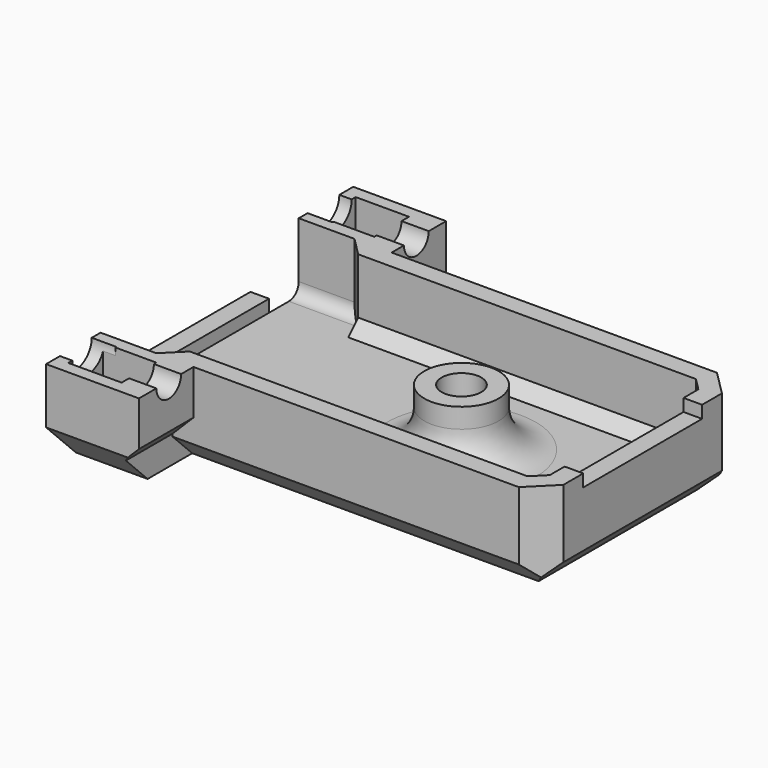
from build123d import *

# Parameters (mm, degrees)
PAD004_DEPTH            = 8.5
SKETCH014_W             = 34.267
SKETCH014_H             = 17
POCKET008_DEPTH         = 5.5
SKETCH015_W             = 6
SKETCH015_H             = 20
POCKET009_DEPTH         = 5.5
SKETCH016_W             = 4.3
SKETCH016_H             = 3.5
POCKET010_DEPTH         = 3
SKETCH017_R             = 1.25
POCKET011_DEPTH         = 35.768
CHAMFER007_SIZE         = 1.49999
POCKET012_DEPTH         = 5.5
CHAMFER008_SIZE         = 4
SKETCH019_W             = 17
SKETCH019_H             = 2
PAD005_DEPTH            = 1.2
SKETCH020_W             = 17
SKETCH020_H             = 3
PAD006_DEPTH            = 1.5
CHAMFER009_SIZE         = 2
SKETCH021_R             = 3
PAD007_DEPTH            = 4.6
FILLET001_R             = 3
CHAMFER010_SIZE         = 3
CHAMFER011_SIZE         = 1
CHAMFER012_SIZE         = 2
SKETCH022_W             = 71.294541
SKETCH022_H             = 63.230997
POCKET013_DEPTH         = 1
SKETCH023_R             = 1.6
POCKET014_DEPTH         = 6.601
POCKET015_DEPTH         = 3
CHAMFER013_SIZE         = 0.5
CHAMFER015_SIZE         = 1
FILLET002_R             = 1
SKETCH028_R             = 1.6
POCKET018_DEPTH         = 2
SKETCH029_W             = 12
SKETCH029_H             = 1
POCKET019_DEPTH         = 5
POCKET019_FACE86_R      = 1.6
PAD010_DEPTH            = 1
PAD010_FACE85_R         = 1.6
POCKET022_DEPTH         = 0.3
BODY001_PLACEMENT_ANGLE = 180


with BuildPart() as part:
    # Sketch013 → Pad004 (new body)
    with BuildSketch(Plane.XY):
        Polygon((-11.7335, -10), (16.5335, -10), (16.5335, 10), (-11.7335, 10), (-11.7335, 15.5), (-19.2335, 15.5), (-19.2335, -15.5), (-11.7335, -15.5), align=None)
    extrude(amount=PAD004_DEPTH)

    # Sketch014 (on Face9 of Pad004) → Pocket008 (cut)
    with BuildSketch(Plane(origin=(0, 0, 0), x_dir=(1, 0, 0), z_dir=(0, 0, -1))):
        with Locations((-2.1, 0)):
            Rectangle(SKETCH014_W, SKETCH014_H)
    extrude(amount=-POCKET008_DEPTH, mode=Mode.SUBTRACT)

    # Sketch015 (on Face4 of Pocket008) → Pocket009 (cut)
    with BuildSketch(Plane(origin=(0, 0, 0), x_dir=(1, 0, 0), z_dir=(0, 0, -1))):
        with Locations((-16.2335, 0)):
            Rectangle(SKETCH015_W, SKETCH015_H)
    extrude(amount=-POCKET009_DEPTH, mode=Mode.SUBTRACT)

    # Sketch016 (on Face4 of Pocket009) → Pocket010 (cut)
    with BuildSketch(Plane(origin=(0, 0, 0), x_dir=(1, 0, 0), z_dir=(0, 0, -1))):
        with Locations((-16.0835, 12.75)):
            Rectangle(SKETCH016_W, SKETCH016_H)
    pocket010 = extrude(amount=-POCKET010_DEPTH, mode=Mode.SUBTRACT)

    # Mirrored002: Pocket010 across Sketch016 H_Axis
    add(pocket010.mirror(Plane(origin=(0, 0, 0), x_dir=(0, 0, -1), z_dir=(0, -1, 0))), mode=Mode.SUBTRACT)

    # Sketch017 (on Face8 of Mirrored002) → Pocket011 (cut, through all)
    with BuildSketch(Plane(origin=(-19.2335, 0, 0), x_dir=(0, -1, 0), z_dir=(-1, 0, 0))):
        with Locations((12.495, 0)):
            Circle(SKETCH017_R)
        with Locations((-12.495, 0)):
            Circle(SKETCH017_R)
    extrude(amount=-POCKET011_DEPTH, mode=Mode.SUBTRACT)

    # Chamfer007
    chamfer007_edges = [part.edges().sort_by_distance(p)[0] for p in [
        (-13.2335, 10, 2.75),
        (-13.2335, -10, 2.75),
    ]]
    chamfer(chamfer007_edges, length=CHAMFER007_SIZE)

    # Sketch018 (on Face8 of Pocket011) → Pocket012 (cut)
    with BuildSketch(Plane.XZ.offset(15.5)):
        Polygon((-11.7335, 3.6), (-13.4335, 5.3), (-13.4335, 8.5), (-11.7335, 8.5), align=None)
    pocket012 = extrude(amount=-POCKET012_DEPTH, mode=Mode.SUBTRACT)

    # Mirrored003: Pocket012 across XZ
    add(pocket012.mirror(Plane.XZ), mode=Mode.SUBTRACT)

    # Chamfer008
    chamfer008_edges = [part.edges().sort_by_distance(p)[0] for p in [
        (-16.3335, -15.5, 8.5),
        (-16.3335, 15.5, 8.5),
    ]]
    chamfer(chamfer008_edges, length=CHAMFER008_SIZE)

    # Sketch019 (on Face1 of Chamfer008) → Pad005 (join)
    with BuildSketch(Plane(origin=(-19.2335, 0, 0), x_dir=(0, -1, 0), z_dir=(-1, 0, 0))):
        with Locations((0, 7.5)):
            Rectangle(SKETCH019_W, SKETCH019_H)
    extrude(amount=PAD005_DEPTH)

    # Sketch020 (on Face23 of Pad005) → Pad006 (join)
    with BuildSketch(Plane(origin=(-20.4335, 0, 0), x_dir=(0, -1, 0), z_dir=(-1, 0, 0))):
        with Locations((0, 7)):
            Rectangle(SKETCH020_W, SKETCH020_H)
    extrude(amount=PAD006_DEPTH)

    # Chamfer009
    chamfer009_edges = [part.edges().sort_by_distance(p)[0] for p in [
        (-21.9335, 0, 8.5),
    ]]
    chamfer(chamfer009_edges, length=CHAMFER009_SIZE)

    # Sketch021 → Pad007 (join)
    with BuildSketch(Plane(origin=(0, 0, 5.5), x_dir=(1, 0, 0), z_dir=(0, 0, -1))):
        with Locations((1.905, 0)):
            Circle(SKETCH021_R)
    extrude(amount=PAD007_DEPTH)

    # Fillet001
    fillet001_edges = [part.edges().sort_by_distance(p)[0] for p in [
        (-1.095, 0, 5.5),
    ]]
    fillet(fillet001_edges, radius=FILLET001_R)

    # Chamfer010
    chamfer010_edges = [part.edges().sort_by_distance(p)[0] for p in [
        (1.55, -10, 8.5),
        (16.5335, 0, 8.5),
        (1.55, 10, 8.5),
    ]]
    chamfer(chamfer010_edges, length=CHAMFER010_SIZE)

    # Chamfer011
    chamfer011_edges = [part.edges().sort_by_distance(p)[0] for p in [
        (15.0335, -8.5, 2.75),
        (15.0335, 8.5, 2.75),
    ]]
    chamfer(chamfer011_edges, length=CHAMFER011_SIZE)

    # Chamfer012
    chamfer012_edges = [part.edges().sort_by_distance(p)[0] for p in [
        (16.5335, -10, 2.75),
        (16.5335, 10, 2.75),
    ]]
    chamfer(chamfer012_edges, length=CHAMFER012_SIZE)

    # Sketch022 (on Face47 of Chamfer012) → Pocket013 (cut)
    with BuildSketch(Plane.XY.offset(8.5)):
        with Locations((3.279843, 6.184065)):
            Rectangle(SKETCH022_W, SKETCH022_H)
    extrude(amount=-POCKET013_DEPTH, mode=Mode.SUBTRACT)

    # Sketch023 (on Face59 of Pocket013) → Pocket014 (cut, through all)
    with BuildSketch(Plane(origin=(0, 0, 0.9), x_dir=(1, 0, 0), z_dir=(0, 0, -1))):
        with Locations((1.905, 0)):
            Circle(SKETCH023_R)
    extrude(amount=-POCKET014_DEPTH, mode=Mode.SUBTRACT)

    # Sketch024 (on Face47 of Pocket014) → Pocket015 (cut)
    with BuildSketch(Plane.XY.offset(7.5)):
        Polygon((3.492713, 2.75), (0.317287, 2.75), (-1.270426, 0), (0.317287, -2.75), (3.492713, -2.75), (5.080426, 0), align=None)
    extrude(amount=-POCKET015_DEPTH, mode=Mode.SUBTRACT)

    # Chamfer013
    chamfer013_edges = [part.edges().sort_by_distance(p)[0] for p in [
        (4.28657, 1.375, 7.5),
        (1.905, 2.75, 7.5),
        (-0.47657, 1.375, 7.5),
        (-0.47657, -1.375, 7.5),
        (1.905, -2.75, 7.5),
        (4.28657, -1.375, 7.5),
    ]]
    chamfer(chamfer013_edges, length=CHAMFER013_SIZE)

    # Chamfer015
    chamfer015_edges = [part.edges().sort_by_distance(p)[0] for p in [
        (0.4, 8.5, 5.5),
        (14.5335, 8, 5.5),
        (15.0335, 0, 5.5),
        (0.4, -8.5, 5.5),
        (14.5335, -8, 5.5),
    ]]
    chamfer(chamfer015_edges, length=CHAMFER015_SIZE)

    # Fillet002
    fillet002_edges = [part.edges().sort_by_distance(p)[0] for p in [
        (-16.983495, 10, 5.5),
        (-16.983495, -10, 5.5),
    ]]
    fillet(fillet002_edges, radius=FILLET002_R)

    # Sketch028 (on Face5 of Fillet002) → Pocket018 (cut)
    with BuildSketch(Plane(origin=(-19.2335, 0, 0), x_dir=(0, -1, 0), z_dir=(-1, 0, 0))):
        with Locations((-12.495, 0)):
            Circle(SKETCH028_R)
        with Locations((12.495, 0)):
            Circle(SKETCH028_R)
    extrude(amount=-POCKET018_DEPTH, mode=Mode.SUBTRACT)

    # Sketch029 (on Face49 of Pocket018) → Pocket019 (cut)
    with BuildSketch(Plane.YZ.offset(16.5335)):
        with Locations((0, 0.5)):
            Rectangle(SKETCH029_W, SKETCH029_H)
    extrude(amount=-POCKET019_DEPTH, mode=Mode.SUBTRACT)

    # Pocket019 Face86 → Pad010 (add)
    with BuildSketch(Plane(origin=(1.905, 0, 4.5), x_dir=(0, 1, 0), z_dir=(0, 0, 1))):
        Polygon((2.75, -1.587713), (2.75, 1.587713), (0, 3.175426), (-2.75, 1.587713), (-2.75, -1.587713), (0, -3.175426), align=None)
        Circle(POCKET019_FACE86_R, mode=Mode.SUBTRACT)
    extrude(amount=PAD010_DEPTH)

    # Pad010 Face85 → Pocket022 (cut)
    with BuildSketch(Plane(origin=(1.905, 0, 5.5), x_dir=(0, 1, 0), z_dir=(0, 0, 1))):
        Polygon((2.75, -1.587713), (2.75, 1.587713), (0, 3.175426), (-2.75, 1.587713), (-2.75, -1.587713), (0, -3.175426), align=None)
        Circle(PAD010_FACE85_R, mode=Mode.SUBTRACT)
    extrude(amount=-POCKET022_DEPTH, mode=Mode.SUBTRACT)


with BuildPart() as part_1:
    # Body001 placement: moved
    add(part.part.rotate(Axis((0, 0, 0), (1, 0, 0)), BODY001_PLACEMENT_ANGLE))


solid = part_1.part
